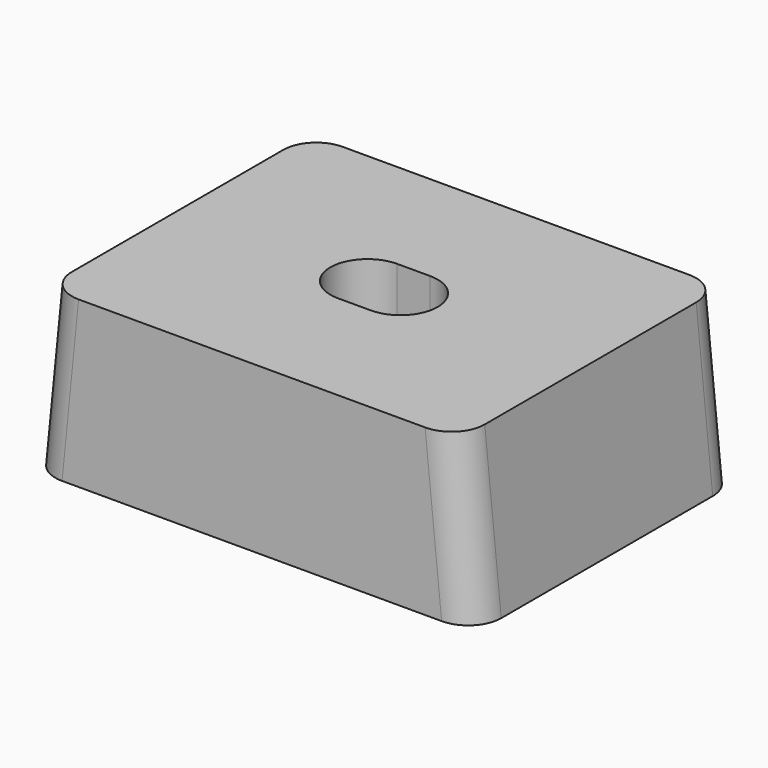
from build123d import *

# Parameters (mm, degrees)
PAD_DEPTH     = 20
POCKET_DEPTH  = 10.001
CHAMFER_SIZE2 = 3.5
CHAMFER_SIZE  = 2
FILLET_R      = 2


with BuildPart() as part:
    # Sketch → Pad (new body)
    with BuildSketch(Plane.XZ):
        Polygon((0, 0), (27, 0), (26, 10), (1, 10), align=None)
    extrude(amount=PAD_DEPTH)

    # Sketch001 (on Face1 of Pad) → Pocket (cut, through all)
    with BuildSketch(Plane(origin=(0, 0, 0), x_dir=(1, 0, 0), z_dir=(0, 0, -1))):
        with BuildLine():
            ThreePointArc((12.5, 12.25), (10.25, 10), (12.5, 7.75))
            Line((12.5, 7.75), (14.5, 7.75))
            ThreePointArc((14.5, 7.75), (16.75, 10), (14.5, 12.25))
            Line((12.5, 12.25), (14.5, 12.25))
        make_face()
    extrude(amount=-POCKET_DEPTH, mode=Mode.SUBTRACT)

    # Chamfer
    chamfer_edges = [part.edges().sort_by_distance(p)[0] for p in [
        (10.25, -10, 0),
        (13.5, -12.25, 0),
        (16.75, -10, 0),
        (13.5, -7.75, 0),
    ]]
    chamfer_side = part.faces().sort_by_distance((0.336006, -10, 0))[0]
    chamfer(chamfer_edges, length=CHAMFER_SIZE, length2=CHAMFER_SIZE2, reference=chamfer_side)

    # Fillet
    fillet_edges = [part.edges().sort_by_distance(p)[0] for p in [
        (26.5, -20, 5),
        (0.5, -20, 5),
        (26.5, 0, 5),
        (0.5, 0, 5),
    ]]
    fillet(fillet_edges, radius=FILLET_R)


solid = part.part
